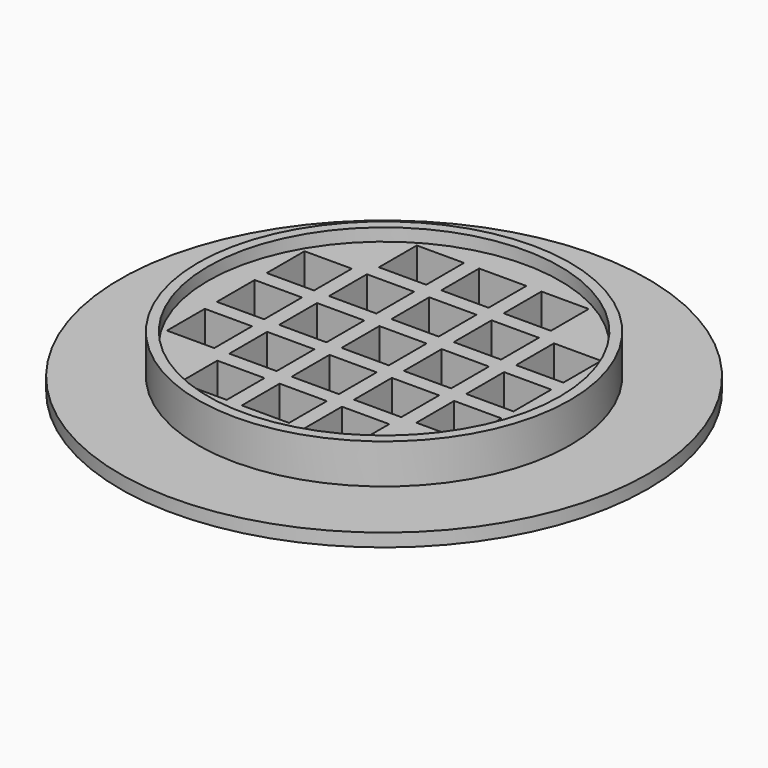
from build123d import *

# Parameters (mm, degrees)
F2_W     = 9.4
F2_H     = 9.4
F3_DEPTH = 25


with BuildPart() as f1:
    # F0 (on Front) → F1 (revolve)
    with BuildSketch(Plane.XZ):
        Polygon((0, 2.6), (0, 0), (37, 0), (52.5, 0), (52.5, 2.6), (37, 2.6), (37, 10.5), (35, 10.5), (35, 8), (0, 8), align=None)
    revolve(axis=Axis((0, 0, 2.351139), (0, 0, -1)))

    # F2 (on face) → F3 (cut)
    with BuildSketch(Plane.XY.offset(8)):
        Rectangle(F2_W, F2_H)
        with Locations((0, 12.4)):
            Rectangle(F2_W, F2_H)
        with Locations((0, 24.8)):
            Rectangle(F2_W, F2_H)
        with Locations((12.4, 0)):
            Rectangle(F2_W, F2_H)
        with Locations((12.4, 12.4)):
            Rectangle(F2_W, F2_H)
        with Locations((12.4, 24.8)):
            Rectangle(F2_W, F2_H)
        with Locations((24.8, 0)):
            Rectangle(F2_W, F2_H)
        with Locations((24.8, 12.4)):
            Rectangle(F2_W, F2_H)
        with Locations((-12.4, 0)):
            Rectangle(F2_W, F2_H)
        with Locations((-12.4, 12.4)):
            Rectangle(F2_W, F2_H)
        with Locations((-12.4, 24.8)):
            Rectangle(F2_W, F2_H)
        with Locations((-24.8, 0)):
            Rectangle(F2_W, F2_H)
        with Locations((-24.8, 12.4)):
            Rectangle(F2_W, F2_H)
        with Locations((-12.4, -12.4)):
            Rectangle(F2_W, F2_H)
        with Locations((-12.4, -24.8)):
            Rectangle(F2_W, F2_H)
        with Locations((24.8, -12.4)):
            Rectangle(F2_W, F2_H)
        with Locations((-24.8, -12.4)):
            Rectangle(F2_W, F2_H)
        with Locations((0, -12.4)):
            Rectangle(F2_W, F2_H)
        with Locations((12.4, -24.8)):
            Rectangle(F2_W, F2_H)
        with Locations((0, -24.8)):
            Rectangle(F2_W, F2_H)
        with Locations((12.4, -12.4)):
            Rectangle(F2_W, F2_H)
    extrude(amount=-F3_DEPTH, mode=Mode.SUBTRACT)


solid = f1.part
